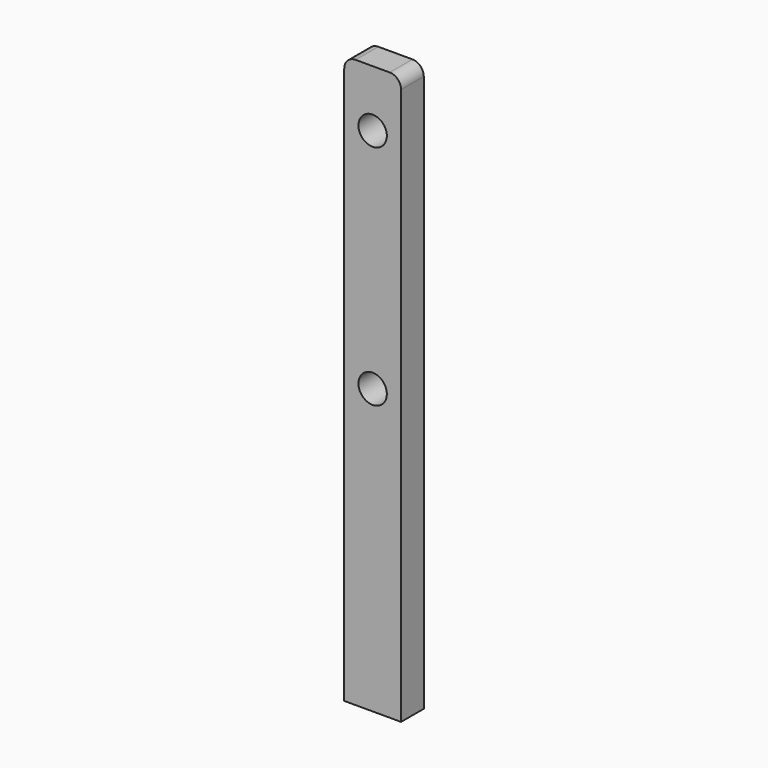
from build123d import *

# Parameters (mm, degrees)
F0_R     = 2.5
F1_DEPTH = 5


with BuildPart() as f1:
    # F0 (on Front) → F1 (new body)
    with BuildSketch(Plane.XZ):
        with BuildLine():
            Line((0, 98), (0, 0))
            Line((0, 0), (10, 0))
            Line((10, 0), (10, 50))
            Line((10, 50), (10, 90))
            Line((10, 90), (10, 98))
            ThreePointArc((10, 98), (9.414214, 99.414214), (8, 100))
            Line((8, 100), (2, 100))
            ThreePointArc((2, 100), (0.585786, 99.414214), (0, 98))
        make_face()
        with Locations((5, 50)):
            Circle(F0_R, mode=Mode.SUBTRACT)
        with Locations((5, 90)):
            Circle(F0_R, mode=Mode.SUBTRACT)
    extrude(amount=F1_DEPTH)


solid = f1.part
